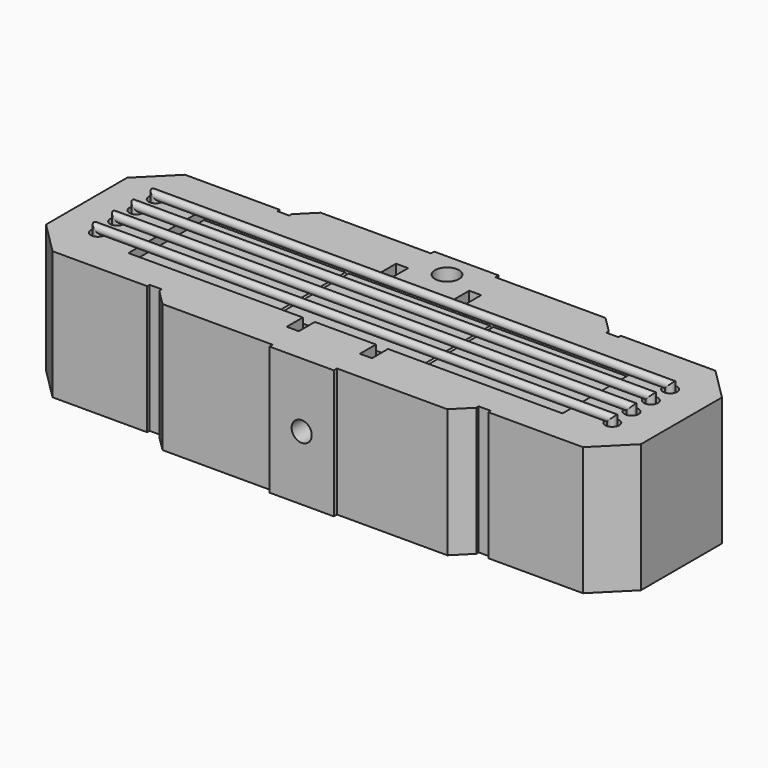
from build123d import *

# Parameters (mm, degrees)
F0_R      = 0.875
F1_DEPTH  = 8
F5_D      = 3
F7_D      = 2.5
F7_DEPTH  = 13.5
F7_TIP    = 0.7510757738
F9_D      = 3
F9_DEPTH  = 13.5
F9_TIP    = 0.9012909285
F11_R     = 0.5
F13_W     = 11
F13_H     = 14
F14_DEPTH = 9
F15_SIZE  = 0.2


with BuildPart() as f1:
    # F0 (on Top) → F1 (new body, symmetric)
    with BuildSketch(Plane.XY):
        Polygon((4, 12.8), (0, 12.8), (0, 6), (3.8, 6), (3.8, 8.5), (5.3, 8.5), (5.3, 6), (27, 6), (27, 0), (37, 0), (37, 6.3), (33, 10.3), (21.22, 10.3), (21.22, 9.924), (19.72, 9.924), (19.72, 10.3), (17.72, 12.3), (4, 12.3), align=None)
        with Locations((32, 1.5)):
            Circle(F0_R, mode=Mode.SUBTRACT)
        with Locations((32, 4.5)):
            Circle(F0_R, mode=Mode.SUBTRACT)
    extrude(amount=F1_DEPTH, both=True)

    # F2: F1 across plane


with BuildPart() as f1_1:
    add(f1.part)
    add(f1.part.mirror(Plane.XZ))

    # F3: F1 across plane


with BuildPart() as f1_2:
    add(f1_1.part)
    add(f1_1.part.mirror(Plane.YZ))

    # F5 (through all)
    with Locations(Plane.XY.offset(8)):
        with Locations((0, 9.8)):
            Hole(F5_D / 2)

    # F7
    with Locations(Plane.XZ.offset(12.8)):
        with Locations((0, 0)):
            Hole(F7_D / 2, depth=F7_DEPTH)
            with Locations((0, 0, -(F7_DEPTH + F7_TIP / 2))):  # 118° drill point
                Cone(0, F7_D / 2, F7_TIP, mode=Mode.SUBTRACT)

    # F9
    with Locations(Plane(origin=(0, 12.8, 0), x_dir=(-1, 0, 0), z_dir=(0, 1, 0))):
        with Locations((0, 0)):
            Hole(F9_D / 2, depth=F9_DEPTH)
            with Locations((0, 0, -(F9_DEPTH + F9_TIP / 2))):  # 118° drill point
                Cone(0, F9_D / 2, F9_TIP, mode=Mode.SUBTRACT)


with BuildPart() as f12:
    # F12: sweep along a path in F10
    with BuildLine(Plane.XZ) as f12_path:
        Line((32, -8.5), (-32, -8.5))
        Line((-32, -8.5), (-32, 8.5))
        Line((-32, 8.5), (32, 8.5))
        Line((32, 8.5), (32, -8.5))
    # F11 (on Right) → F12 (sweep)
    with BuildSketch(Plane.YZ):
        with Locations((-4.5, 8.5)):
            Circle(F11_R)
        with Locations((-1.5, 8.5)):
            Circle(F11_R)
        with Locations((1.5, 8.5)):
            Circle(F11_R)
        with Locations((4.5, 8.5)):
            Circle(F11_R)
    sweep(path=f12_path.line, transition=Transition.RIGHT)


with BuildPart() as f14:
    # F13 (on Right) → F14 (new body, symmetric)
    with BuildSketch(Plane.YZ):
        Rectangle(F13_W, F13_H)
    extrude(amount=F14_DEPTH, both=True)

    # F15
    f15_edges = [f14.edges().sort_by_distance(p)[0] for p in [
        (9, 0, 7),
        (-9, 0, 7),
        (9, 0, -7),
        (-9, 0, -7),
    ]]
    chamfer(f15_edges, length=F15_SIZE)


with BuildPart() as f16_1:
    # F16: instance of F14
    add(f14.part.mirror(Plane(origin=(-9, 0, 0), x_dir=(0, 1, 0), z_dir=(-1, 0, 0))))


with BuildPart() as f17_1:
    # F17: instance of F14
    add(f14.part.mirror(Plane.YZ.offset(9)))


solid = Compound([f1_2.part, f12.part, f14.part, f16_1.part, f17_1.part])
